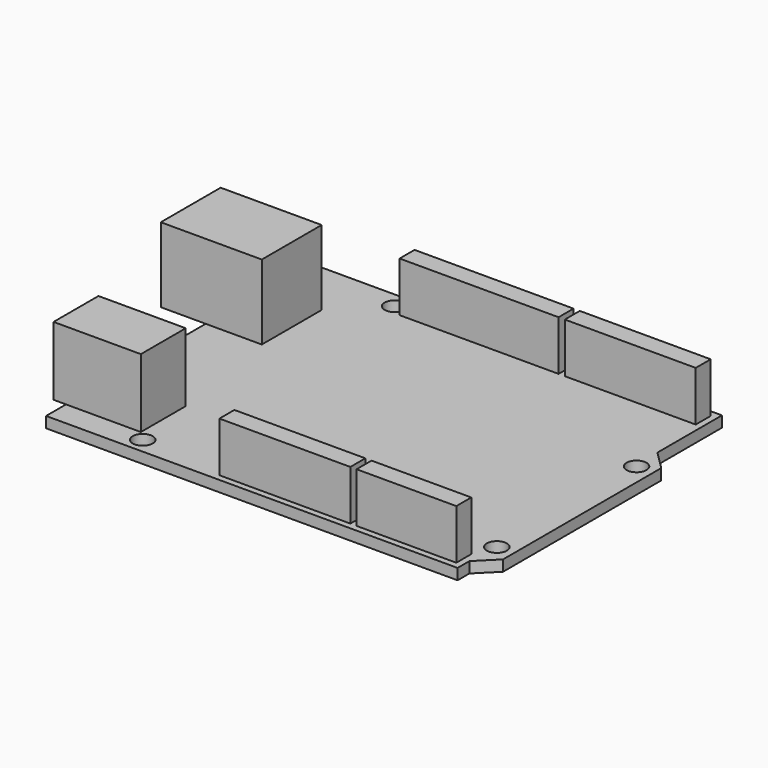
from build123d import *

# Parameters (mm, degrees)
F0_R     = 1.6
F1_DEPTH = 1.75
F2_W     = 7.2
F2_H     = 12
F2_W_2   = 9
F3_DEPTH = 12
F4_W     = 12
F4_H     = 9
F4_W_2   = 2
F5_DEPTH = 11
F6_W     = 21
F6_H     = 3
F6_W_2   = 16
F6_W_3   = 25.5
F7_DEPTH = 8


with BuildPart() as f1:
    # F0 (on Top) → F1 (new body)
    with BuildSketch(Plane.XY):
        Polygon((29.560432, 36.989467), (-36.439568, 36.989467), (-36.439568, -16.010533), (29.560432, -16.010533), (29.560432, -13.644766), (32.560432, -10.644766), (32.560432, 21.065632), (29.560432, 24.065632), align=None)
        with Locations((-22.939568, -13.510533)):
            Circle(F0_R, mode=Mode.SUBTRACT)
        with Locations((29.860432, -8.510533)):
            Circle(F0_R, mode=Mode.SUBTRACT)
        with Locations((-20.939568, 34.489467)):
            Circle(F0_R, mode=Mode.SUBTRACT)
        with Locations((29.860432, 19.489467)):
            Circle(F0_R, mode=Mode.SUBTRACT)
    extrude(amount=F1_DEPTH)

    # F2 (on face) → F3 (join)
    with BuildSketch(Plane.XY.offset(1.75)):
        with Locations((-40.039568, 21.989467)):
            Rectangle(F2_W, F2_H)
        with Locations((-31.939568, 21.989467)):
            Rectangle(F2_W_2, F2_H)
    extrude(amount=F3_DEPTH)

    # F4 (on face) → F5 (join)
    with BuildSketch(Plane.XY.offset(1.75)):
        with Locations((-30.439568, -7.510533)):
            Rectangle(F4_W, F4_H)
        with Locations((-37.439568, -7.510533)):
            Rectangle(F4_W_2, F4_H)
    extrude(amount=F5_DEPTH)

    # F6 (on face) → F7 (join)
    with BuildSketch(Plane.XY.offset(1.75)):
        with Locations((1.060432, -13.510533)):
            Rectangle(F6_W, F6_H)
        with Locations((20.560432, -13.510533)):
            Rectangle(F6_W_2, F6_H)
        with Locations((18.060432, 34.489467)):
            Rectangle(F6_W, F6_H)
        with Locations((-6.189568, 34.489467)):
            Rectangle(F6_W_3, F6_H)
    extrude(amount=F7_DEPTH)


solid = f1.part
